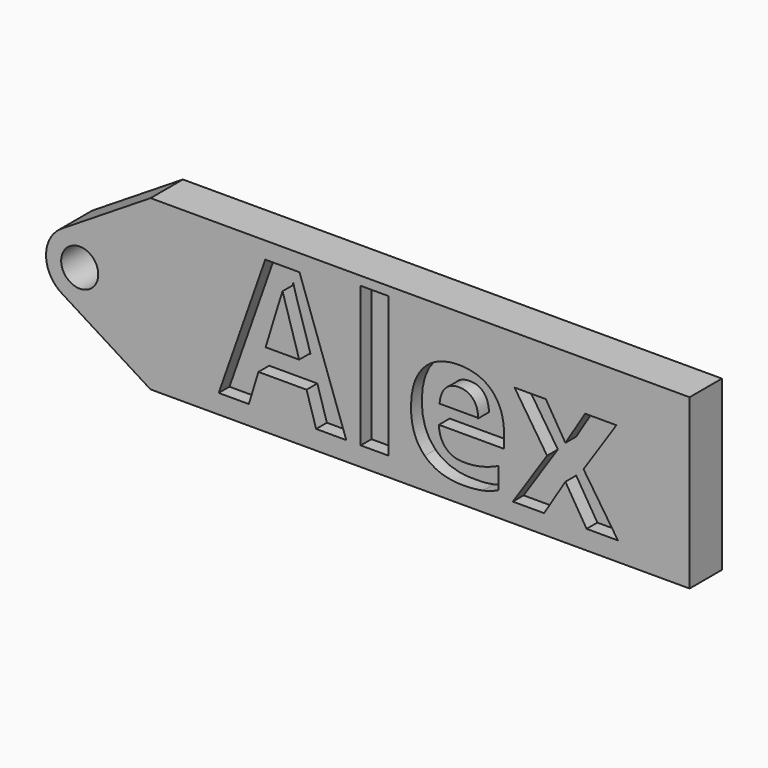
from build123d import *

# Parameters (mm, degrees)
F0_W     = 4.0866517243
F0_H     = 20.8535019259
F1_DEPTH = 4
F0_W_2   = 80
F0_H_2   = 25
F0_R     = 2.753388348
F2_DEPTH = 6


with BuildPart() as f1:
    # F0 (on Front) → F1 (new body)
    with BuildSketch(Plane.XZ):
        Polygon((-16.8504189482, -5.0033860866), (-15.431025747, -9.6689444035), (-10.9541480973, -9.6689444035), (-17.8967390119, 10.0053033521), (-22.9739642392, 10.0053033521), (-29.890825972, -9.6689444035), (-25.4139483222, -9.6689444035), (-23.994555121, -5.0033860866), align=None)
        with BuildLine():
            Line((-22.9214353789, -1.4345208183), (-22.9871142656, -1.4345208183))
            Line((-22.9871142656, -1.4345208183), (-21.2211364833, 4.1517354839))
            add(Edge.make_bspline(
                [(-20.4181988376, 6.9606834946), (-20.6301227734, 6.137677919), (-21.2211364833, 4.1517354839)],
                knots=[0, 0, 0, 0.4798086346, 0.4798086346, 0.4798086346], degree=2))
            add(Edge.make_bspline(
                [(-20.0622784881, 5.6484952179), (-20.3109939131, 6.4804054325), (-20.4181988376, 6.9606834946)],
                knots=[0, 0, 0, 1, 1, 1], degree=2))
            add(Edge.make_bspline(
                [(-17.8452806481, -1.5213701368), (-19.8135630631, 4.8165850033), (-20.0622784881, 5.6484952179)],
                knots=[0, 0, 0, 1, 1, 1], degree=2))
            Line((-17.8452806481, -1.5213701368), (-22.9482350573, -1.5213701368))
            add(Edge.make_bspline(
                [(-22.9214353789, -1.4345208183), (-22.934801148, -1.4778409604), (-22.9482350573, -1.5213701368)],
                knots=[0.9935672196, 0.9935672196, 0.9935672196, 1, 1, 1], degree=2))
        make_face(mode=Mode.SUBTRACT)
        with Locations((-6.7667237439, 0.7578065594)):
            Rectangle(F0_W, F0_H)
        with BuildLine():
            add(Edge.make_bspline(
                [(6.3444385301, -9.9391008134), (2.7294884739, -9.9391008134), (0.6925949072, -7.9408010196)],
                knots=[0, 0, 0, 1, 1, 1], degree=2))
            add(Edge.make_bspline(
                [(9.320447236, -9.6775207975), (8.1025992929, -9.9391008134), (6.3444385301, -9.9391008134)],
                knots=[0, 0, 0, 1, 1, 1], degree=2))
            add(Edge.make_bspline(
                [(11.6103444246, -8.8799161588), (10.538295179, -9.4159407816), (9.320447236, -9.6775207975)],
                knots=[0, 0, 0, 1, 1, 1], degree=2))
            Line((11.6103444246, -8.8799161588), (11.6103444246, -5.7152267857))
            add(Edge.make_bspline(
                [(9.0931727959, -6.6136040535), (10.298156148, -6.3327271512), (11.6103444246, -5.7152267857)],
                knots=[0, 0, 0, 1, 1, 1], degree=2))
            add(Edge.make_bspline(
                [(6.5331191973, -6.8944809559), (7.8881894438, -6.8944809559), (9.0931727959, -6.6136040535)],
                knots=[0, 0, 0, 1, 1, 1], degree=2))
            add(Edge.make_bspline(
                [(3.8272669014, -5.9167720438), (4.7921112224, -6.8944809559), (6.5331191973, -6.8944809559)],
                knots=[0, 0, 0, 1, 1, 1], degree=2))
            add(Edge.make_bspline(
                [(2.7938114286, -3.1980551569), (2.8624225803, -4.9390631318), (3.8272669014, -5.9167720438)],
                knots=[0, 0, 0, 1, 1, 1], degree=2))
            Line((2.7938114286, -3.1980551569), (12.4551192302, -3.1980551569))
            Line((12.4551192302, -3.1980551569), (12.4551192302, -1.2126199541))
            add(Edge.make_bspline(
                [(10.6862379749, 3.785273629), (12.4551192302, 1.9777986009), (12.4551192302, -1.2126199541)],
                knots=[0, 0, 0, 1, 1, 1], degree=2))
            add(Edge.make_bspline(
                [(5.7440909526, 5.5927486572), (8.9173567196, 5.5927486572), (10.6862379749, 3.785273629)],
                knots=[0, 0, 0, 1, 1, 1], degree=2))
            add(Edge.make_bspline(
                [(0.5382198158, 3.5365582041), (2.4207382911, 5.5927486572), (5.7440909526, 5.5927486572)],
                knots=[0, 0, 0, 1, 1, 1], degree=2))
            add(Edge.make_bspline(
                [(-1.3442986595, -2.2846691997), (-1.3442986595, 1.480367751), (0.5382198158, 3.5365582041)],
                knots=[0, 0, 0, 1, 1, 1], degree=2))
            add(Edge.make_bspline(
                [(0.6925949072, -7.9408010196), (-1.3442986595, -5.9425012257), (-1.3442986595, -2.2846691997)],
                knots=[0, 0, 0, 1, 1, 1], degree=2))
        make_face()
        with BuildLine():
            ThreePointArc((8.5413720325, -0.4750500731), (5.7301505938, -2.9905176858), (2.9189291551, -0.4750500731))
            Line((2.9189291551, -0.4750500731), (2.8881517622, -0.4750500731))
            add(Edge.make_bspline(
                [(3.7329265678, 1.8620172824), (2.9953566868, 1.0386834618), (2.8881517622, -0.4750500731)],
                knots=[0, 0, 0, 1, 1, 1], degree=2))
            add(Edge.make_bspline(
                [(5.7698201344, 2.685351103), (4.4704964488, 2.685351103), (3.7329265678, 1.8620172824)],
                knots=[0, 0, 0, 1, 1, 1], degree=2))
            add(Edge.make_bspline(
                [(7.832442883, 1.8620172824), (7.0691438201, 2.685351103), (5.7698201344, 2.685351103)],
                knots=[0, 0, 0, 1, 1, 1], degree=2))
            add(Edge.make_bspline(
                [(8.6257593248, -0.4750500731), (8.5957419459, 1.0386834618), (7.832442883, 1.8620172824)],
                knots=[0, 0, 0, 1, 1, 1], degree=2))
            Line((8.6257593248, -0.4750500731), (8.5413720325, -0.4750500731))
        make_face(mode=Mode.SUBTRACT)
        Polygon((14.0245993257, 5.3140158533), (18.848820931, -2.0188009868), (13.7673075068, -9.6689444035), (18.4071366419, -9.6689444035), (21.5675378179, -4.5359726155), (24.7150744031, -9.6689444035), (29.3677681291, -9.6689444035), (24.260525523, -2.0188009868), (29.140493689, 5.3140158533), (24.500664554, 5.3140158533), (21.5675378179, 0.5412526118), (18.6601402638, 5.3140158533), align=None)
        with BuildLine():
            Line((8.5413720325, -0.4750500731), (2.9189291551, -0.4750500731))
            ThreePointArc((2.9189291551, -0.4750500731), (5.7301505938, -2.9905176858), (8.5413720325, -0.4750500731))
        make_face()
    extrude(amount=F1_DEPTH)


with BuildPart() as f2:
    # F0 (on Front) → F2 (new body)
    with BuildSketch(Plane.XZ):
        Rectangle(F0_W_2, F0_H_2)
        with BuildLine():
            add(Edge.make_bspline(
                [(9.320447236, -9.6775207975), (8.1025992929, -9.9391008134), (6.3444385301, -9.9391008134)],
                knots=[0, 0, 0, 1, 1, 1], degree=2))
            add(Edge.make_bspline(
                [(6.3444385301, -9.9391008134), (2.7294884739, -9.9391008134), (0.6925949072, -7.9408010196)],
                knots=[0, 0, 0, 1, 1, 1], degree=2))
            add(Edge.make_bspline(
                [(0.6925949072, -7.9408010196), (-1.3442986595, -5.9425012257), (-1.3442986595, -2.2846691997)],
                knots=[0, 0, 0, 1, 1, 1], degree=2))
            add(Edge.make_bspline(
                [(-1.3442986595, -2.2846691997), (-1.3442986595, 1.480367751), (0.5382198158, 3.5365582041)],
                knots=[0, 0, 0, 1, 1, 1], degree=2))
            add(Edge.make_bspline(
                [(0.5382198158, 3.5365582041), (2.4207382911, 5.5927486572), (5.7440909526, 5.5927486572)],
                knots=[0, 0, 0, 1, 1, 1], degree=2))
            add(Edge.make_bspline(
                [(5.7440909526, 5.5927486572), (8.9173567196, 5.5927486572), (10.6862379749, 3.785273629)],
                knots=[0, 0, 0, 1, 1, 1], degree=2))
            add(Edge.make_bspline(
                [(10.6862379749, 3.785273629), (12.4551192302, 1.9777986009), (12.4551192302, -1.2126199541)],
                knots=[0, 0, 0, 1, 1, 1], degree=2))
            Line((12.4551192302, -1.2126199541), (12.4551192302, -3.1980551569))
            Line((12.4551192302, -3.1980551569), (2.7938114286, -3.1980551569))
            add(Edge.make_bspline(
                [(2.7938114286, -3.1980551569), (2.8624225803, -4.9390631318), (3.8272669014, -5.9167720438)],
                knots=[0, 0, 0, 1, 1, 1], degree=2))
            add(Edge.make_bspline(
                [(3.8272669014, -5.9167720438), (4.7921112224, -6.8944809559), (6.5331191973, -6.8944809559)],
                knots=[0, 0, 0, 1, 1, 1], degree=2))
            add(Edge.make_bspline(
                [(6.5331191973, -6.8944809559), (7.8881894438, -6.8944809559), (9.0931727959, -6.6136040535)],
                knots=[0, 0, 0, 1, 1, 1], degree=2))
            add(Edge.make_bspline(
                [(9.0931727959, -6.6136040535), (10.298156148, -6.3327271512), (11.6103444246, -5.7152267857)],
                knots=[0, 0, 0, 1, 1, 1], degree=2))
            Line((11.6103444246, -5.7152267857), (11.6103444246, -8.8799161588))
            add(Edge.make_bspline(
                [(11.6103444246, -8.8799161588), (10.538295179, -9.4159407816), (9.320447236, -9.6775207975)],
                knots=[0, 0, 0, 1, 1, 1], degree=2))
        make_face(mode=Mode.SUBTRACT)
        Polygon((13.7673075068, -9.6689444035), (18.848820931, -2.0188009868), (14.0245993257, 5.3140158533), (18.6601402638, 5.3140158533), (21.5675378179, 0.5412526118), (24.500664554, 5.3140158533), (29.140493689, 5.3140158533), (24.260525523, -2.0188009868), (29.3677681291, -9.6689444035), (24.7150744031, -9.6689444035), (21.5675378179, -4.5359726155), (18.4071366419, -9.6689444035), align=None, mode=Mode.SUBTRACT)
        Polygon((-10.9541480973, -9.6689444035), (-15.431025747, -9.6689444035), (-16.8504189482, -5.0033860866), (-23.994555121, -5.0033860866), (-25.4139483222, -9.6689444035), (-29.890825972, -9.6689444035), (-22.9739642392, 10.0053033521), (-17.8967390119, 10.0053033521), align=None, mode=Mode.SUBTRACT)
        with Locations((-6.7667237439, 0.7578065594)):
            Rectangle(F0_W, F0_H, mode=Mode.SUBTRACT)
        with BuildLine():
            Line((-53.1757467349, -4.2357348042), (-40, -12.5))
            Line((-40, -12.5), (-40, 12.5))
            Line((-40, 12.5), (-53.1757467349, 4.2357348042))
            ThreePointArc((-53.1757467349, 4.2357348042), (-55.5189534294, 0), (-53.1757467349, -4.2357348042))
        make_face()
        with Locations((-50.5189534294, 0)):
            Circle(F0_R, mode=Mode.SUBTRACT)
    extrude(amount=F2_DEPTH)


with BuildPart() as f2b:
    # F0 (on Front) → F2, piece 2 (new body)
    with BuildSketch(Plane.XZ):
        with BuildLine():
            Line((-20.4134713858, 6.7065944895), (-21.2211364833, 4.1517354839))
            add(Edge.make_bspline(
                [(-21.2211364833, 4.1517354839), (-21.8539687116, 2.0252731781), (-22.9214353789, -1.4345208183)],
                knots=[0.4798086346, 0.4798086346, 0.4798086346, 0.9935672196, 0.9935672196, 0.9935672196], degree=2))
            Line((-22.9214353789, -1.4345208183), (-17.9448761046, -1.4345208183))
            Line((-17.9448761046, -1.4345208183), (-20.4134713858, 6.7065944895))
        make_face()
    extrude(amount=F2_DEPTH)


with BuildPart() as f2c:
    # F0 (on Front) → F2, piece 3 (new body)
    with BuildSketch(Plane.XZ):
        with BuildLine():
            ThreePointArc((2.9189291551, -0.4750500731), (2.9154802819, -0.4423627308), (2.9124114662, -0.4096375196))
            Line((2.9124114662, -0.4096375196), (8.5478897213, -0.4096375196))
            ThreePointArc((8.5478897213, -0.4096375196), (8.5448209057, -0.4423627308), (8.5413720325, -0.4750500731))
            Line((8.5413720325, -0.4750500731), (8.6257593248, -0.4750500731))
            add(Edge.make_bspline(
                [(8.6257593248, -0.4750500731), (8.5957419459, 1.0386834618), (7.832442883, 1.8620172824)],
                knots=[0, 0, 0, 1, 1, 1], degree=2))
            add(Edge.make_bspline(
                [(7.832442883, 1.8620172824), (7.0691438201, 2.685351103), (5.7698201344, 2.685351103)],
                knots=[0, 0, 0, 1, 1, 1], degree=2))
            add(Edge.make_bspline(
                [(5.7698201344, 2.685351103), (4.4704964488, 2.685351103), (3.7329265678, 1.8620172824)],
                knots=[0, 0, 0, 1, 1, 1], degree=2))
            add(Edge.make_bspline(
                [(3.7329265678, 1.8620172824), (2.9953566868, 1.0386834618), (2.8881517622, -0.4750500731)],
                knots=[0, 0, 0, 1, 1, 1], degree=2))
            Line((2.8881517622, -0.4750500731), (2.9189291551, -0.4750500731))
        make_face()
    extrude(amount=F2_DEPTH)


solid = Compound([f1.part, f2.part, f2b.part, f2c.part])
